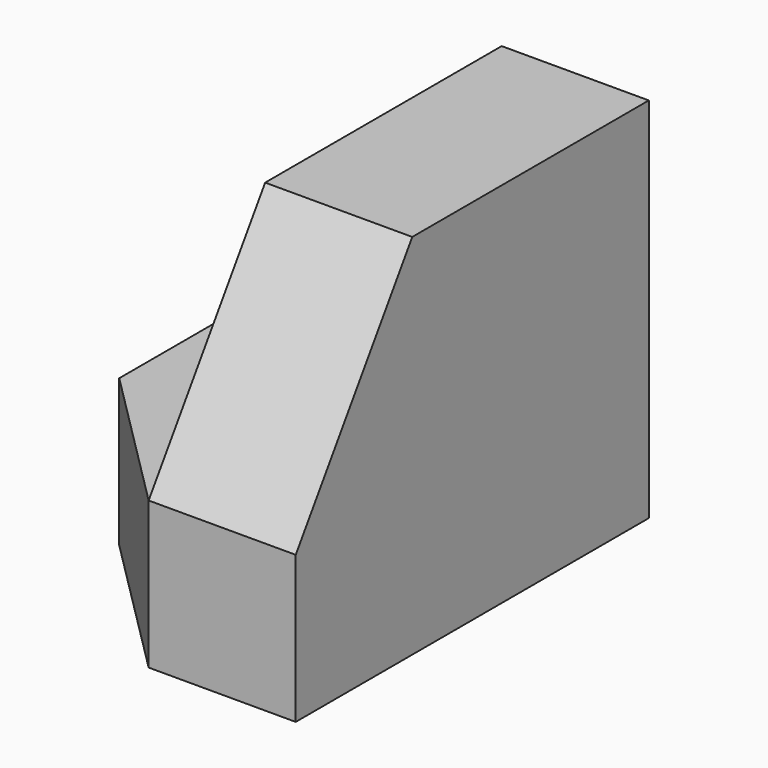
from build123d import *

# Parameters (mm, degrees)
F1_DEPTH = 38.1
F3_DEPTH = 25.4
F5_DEPTH = 25.4


with BuildPart() as f1:
    # F0 (on Front) → F1 (new body)
    with BuildSketch(Plane.XZ):
        Polygon((-25.4, 0), (0, 0), (0, 31.75), (-12.7, 31.75), (-12.7, 12.7), (-25.4, 12.7), align=None)
    extrude(amount=F1_DEPTH)

    # F2 (on Right) → F3 (cut)
    with BuildSketch(Plane.YZ):
        Polygon((-38.1, 31.940659), (-38.1, 12.7), (-25.4, 31.940659), align=None)
    extrude(amount=-F3_DEPTH, mode=Mode.SUBTRACT)

    # F4 (on Top) → F5 (cut)
    with BuildSketch(Plane.XY):
        Polygon((-25.4, -38.1), (-12.7, -38.1), (-25.4, -25.4), align=None)
    extrude(amount=F5_DEPTH, mode=Mode.SUBTRACT)


solid = f1.part
